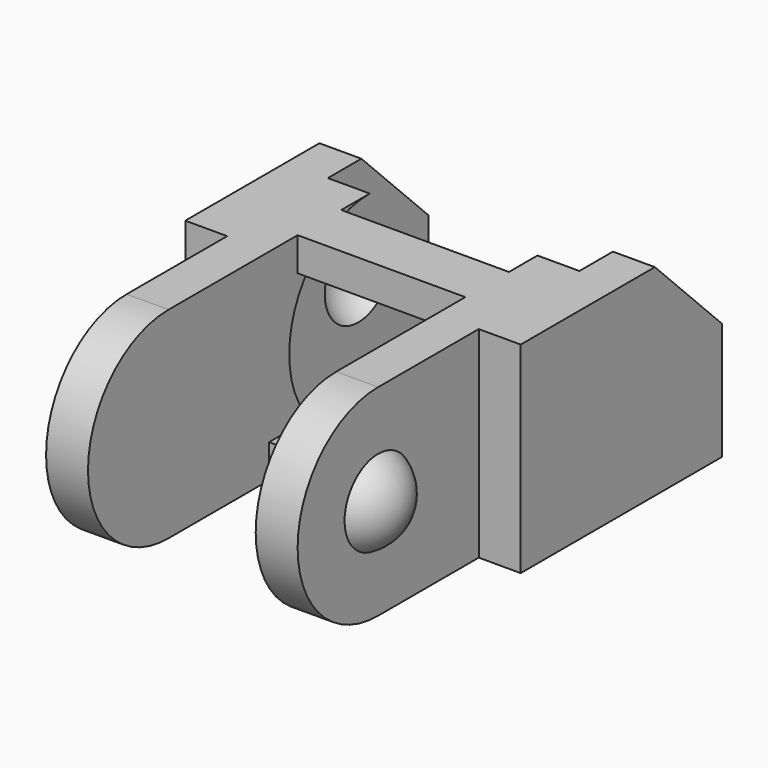
from build123d import *

# Parameters (mm, degrees)
F2_DEPTH  = 2.5
F4_DEPTH  = 2.5
F8_W      = 5
F8_H      = 3.25
F9_DEPTH  = 2
F10_W     = 5
F10_H     = 7.5
F11_DEPTH = 2


with BuildPart() as f2:
    # F1 (on Right) → F2 (new body)
    with BuildSketch(Plane.YZ):
        with BuildLine():
            ThreePointArc((7.5, -6), (1.5, 0), (7.5, 6))
            Line((7.5, 6), (-7.5, 6))
            ThreePointArc((-7.5, 6), (-13.5, 0), (-7.5, -6))
            Line((-7.5, -6), (7.5, -6))
        make_face()
    extrude(amount=-F2_DEPTH)

    # F0 (on Right) → F4 (join)
    with BuildSketch(Plane.YZ):
        Polygon((0, 6), (0, -6), (15, -6), (15, 1), (10, 6), align=None)
    extrude(amount=F4_DEPTH)

    # F6 (on offset) → F7 (revolve, cut)
    with BuildSketch(Plane.XZ.offset(-9.77)):
        with BuildLine():
            Line((-2.5325156748, 2.5), (-2.5325156748, 0))
            Line((-2.5325156748, 0), (1.556239127, 0))
            ThreePointArc((1.556239127, 0), (1.1353956611, 1.4724028169), (0, 2.5))
            Line((0, 2.5), (-2.5325156748, 2.5))
        make_face()
    revolve(axis=Axis((-10.801910348, 9.77, 0), (1, 0, 0)), mode=Mode.SUBTRACT)

    # F8 (on face) → F9 (join)
    with BuildSketch(Plane.XY.offset(6)):
        with Locations((-5, 3.75)):
            Rectangle(F8_W, F8_H)
    extrude(amount=-F9_DEPTH)

    # F10 (on face) → F11 (join)
    with BuildSketch(Plane(origin=(0, 0, -6), x_dir=(1, 0, 0), z_dir=(0, 0, -1))):
        with Locations((-5, -3.75)):
            Rectangle(F10_W, F10_H)
    extrude(amount=-F11_DEPTH)

    # F14 (on offset) → F15 (revolve)
    with BuildSketch(Plane.XZ.offset(7.5)):
        with BuildLine():
            Line((0, 0), (1.524425623, 0))
            ThreePointArc((1.524425623, 0), (1.1132612082, 1.4640588684), (0, 2.5))
            Line((0, 2.5), (0, 0))
        make_face()
    revolve(axis=Axis((-0.2374296736, -7.5, 0), (1, 0, 0)))

    # F16: F2 across plane


with BuildPart() as f2_1:
    add(f2.part)
    add(f2.part.mirror(Plane(origin=(-7.5, 3.75, -5), x_dir=(0, -1, 0), z_dir=(-1, 0, 0))))


solid = f2_1.part
